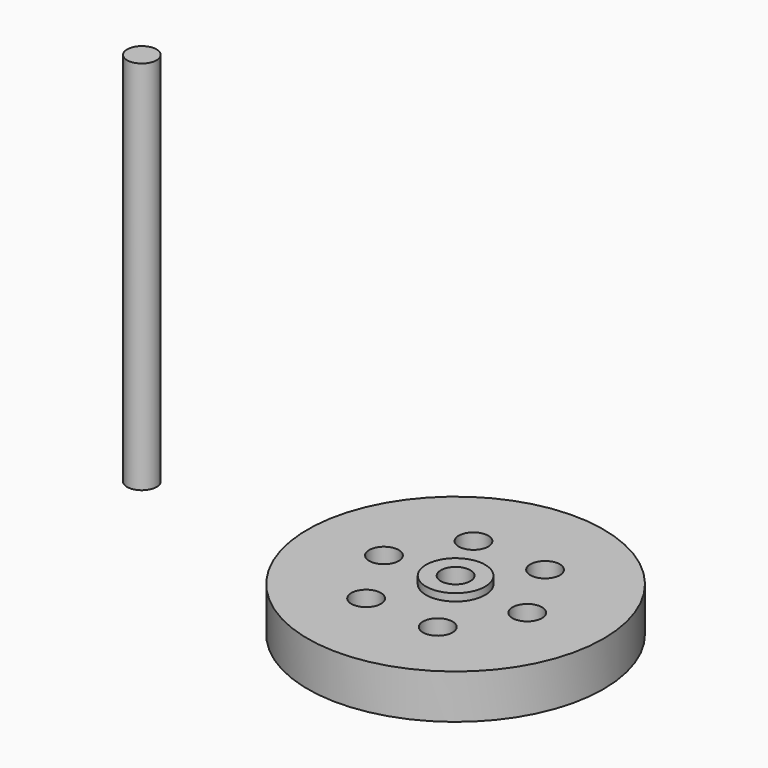
from build123d import *

# Parameters (mm, degrees)
F0_R     = 20
F1_DEPTH = 6
F2_R     = 2
F3_DEPTH = 6.001
F2_R_2   = 4
F4_DEPTH = 1
F5_R     = 4
F5_R_2   = 2
F6_DEPTH = 1
F7_R     = 1.9939
F8_DEPTH = 50.8


with BuildPart() as f1:
    # F0 (on Top) → F1 (new body)
    with BuildSketch(Plane.XY):
        Circle(F0_R)
    extrude(amount=F1_DEPTH)

    # F2 (on face) → F3 (cut, through all)
    with BuildSketch(Plane.XY.offset(6)):
        with Locations((-4.6624582915, 8.8465520221)):
            Circle(F2_R)
        with Locations((5.3301096413, 8.4610833356)):
            Circle(F2_R)
        with Locations((9.9925679328, -0.3854686866)):
            Circle(F2_R)
        with Locations((4.6624582915, -8.8465520221)):
            Circle(F2_R)
        with Locations((-5.3301096413, -8.4610833356)):
            Circle(F2_R)
        with Locations((-9.9925679328, 0.3854686866)):
            Circle(F2_R)
        Circle(F2_R)
    extrude(amount=-F3_DEPTH, mode=Mode.SUBTRACT)

    # F2 (on face) → F4 (join)
    with BuildSketch(Plane.XY.offset(6)):
        Circle(F2_R_2)
        Circle(F2_R, mode=Mode.SUBTRACT)
    extrude(amount=F4_DEPTH)

    # F5 (on face) → F6 (join)
    with BuildSketch(Plane(origin=(0, 0, 0), x_dir=(1, 0, 0), z_dir=(0, 0, -1))):
        Circle(F5_R)
        Circle(F5_R_2, mode=Mode.SUBTRACT)
    extrude(amount=F6_DEPTH)


with BuildPart() as f8:
    # F7 (on Top) → F8 (new body)
    with BuildSketch(Plane.XY):
        with Locations((-47.7094948292, 6.6089383326)):
            Circle(F7_R)
    extrude(amount=F8_DEPTH)


solid = Compound([f1.part, f8.part])
